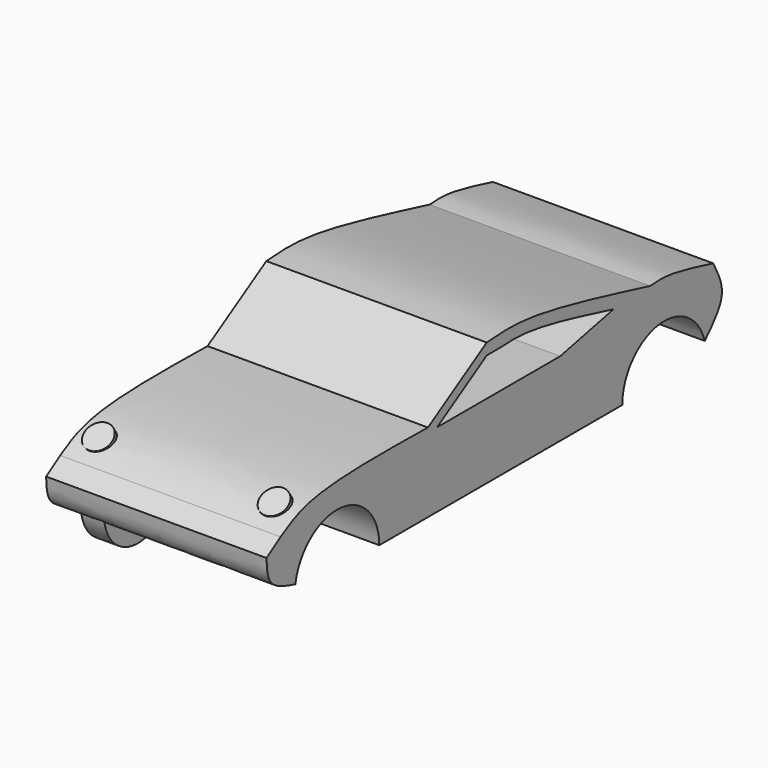
from build123d import *

# Parameters (mm, degrees)
F1_DEPTH = 60.96
F2_R     = 3.7719
F2_R_2   = 3.7723161285
F3_DEPTH = 5.08
F4_R     = 12.0854778756
F5_DEPTH = 6.35
F4_R_2   = 11.7760328576


with BuildPart() as f1:
    # F0 (on Right) → F1 (new body)
    with BuildSketch(Plane.YZ):
        with BuildLine():
            add(Edge.make_bspline(
                [(-64.1409039851, 0), (-61.3367730342, 1.6724076979), (-53.1906836739, 6.5308051097), (-29.0257862813, 6.1581053523), (-13.1791792619, 5.9137001518)],
                knots=[0, 0, 0, 0, 0.3442303205, 1, 1, 1, 1], degree=3))
            add(Edge.make_bspline(
                [(-64.1409039851, 0), (-65.7649742695, -1.0525936291), (-67.3890445539, -2.1051872582), (-69.0131148383, -3.1577808873)],
                knots=[0, 0, 0, 0, 5.8060329598, 5.8060329598, 5.8060329598, 5.8060329598], degree=3))
            add(Edge.make_bspline(
                [(-69.0131148383, -3.1577808873), (-68.9123331399, -5.630824506), (-68.6966685869, -10.9229346325), (-62.4284961999, -12.7148325819), (-59.0266166814, -13.6330034502)],
                knots=[0, 0, 0, 0, 0.4580363137, 0.9801600731, 0.9801600731, 0.9801600731, 0.9801600731], degree=3))
            ThreePointArc((-59.0266166814, -13.6330034502), (-43.4554006161, -1.3628345708), (-29.9993582291, -15.921499941))
            Line((-29.9993582291, -15.921499941), (54.0074083772, -15.921499941))
            ThreePointArc((54.0074083772, -15.921499941), (66.5239810985, -1.5216773113), (82.5264596121, -11.9111029871))
            add(Edge.make_bspline(
                [(85.464653483, 5.7898388273), (87.1383087684, 2.7525841783), (90.5830174187, -3.4986776281), (85.2621277219, -9.0545972271), (82.5264596121, -11.9111029871)],
                knots=[0, 0, 0, 0, 0.4858626535, 1, 1, 1, 1], degree=3))
            add(Edge.make_bspline(
                [(63.6131833576, 9.1485750818), (65.5147638513, 9.2864029295), (70.4140299258, 9.641505067), (79.751431573, 7.2519326646), (85.464653483, 5.7898388273)],
                knots=[0, 0, 0, 0, 0.388135787, 1, 1, 1, 1], degree=3))
            add(Edge.make_bspline(
                [(7.1464148377, 18.3476333366), (11.1956700146, 18.6622120641), (22.3860660817, 19.5315720827), (47.5529559118, 13.1933229182), (63.6131833576, 9.1485750818)],
                knots=[0, 0, 0, 0, 0.3618509258, 1, 1, 1, 1], degree=3))
            Line((7.1464148377, 18.3476333366), (-13.1791792619, 5.9137001518))
        make_face()
        with BuildLine():
            Line((-3.6628949456, -5.7045863252), (-10.0154345855, 4.6798302792))
            Line((-10.0154345855, 4.6798302792), (7.1464148377, 15.1783814167))
            add(Edge.make_bspline(
                [(7.1464148377, 15.1783814167), (8.4105502773, 15.1492259207), (11.5882400934, 15.0759369995), (19.8931919739, 15.9052709485), (32.1324530372, 13.2864391903), (39.4338364298, 11.5199001411)],
                knots=[0, 0, 0, 0, 0.1890527764, 0.4752268335, 0.8221217731, 0.8221217731, 0.8221217731, 0.8221217731], degree=3))
            add(Edge.make_bspline(
                [(39.4338364298, 11.5199001411), (43.1777859172, 10.6140672855), (47.0781263928, 9.6210632321), (50.9784668684, 8.6280591786)],
                knots=[0.8221217731, 0.8221217731, 0.8221217731, 0.8221217731, 1, 1, 1, 1], degree=3))
            Line((50.9784668684, 8.6280591786), (32.5549766421, 4.6798302792))
            add(Edge.make_bspline(
                [(-3.6628949456, -5.7045863252), (-2.9426448667, -6.7081638621), (-0.6801711967, -9.8606352324), (22.1604686278, -12.6179211274), (25.6930435705, -8.1083868826), (29.9163214532, -0.2376900782), (32.5549766421, 4.6798302792)],
                knots=[0, 0, 0, 0, 0.1677344339, 0.5268930214, 0.7044082301, 1, 1, 1, 1], degree=3))
        make_face(mode=Mode.SUBTRACT)
        with BuildLine():
            Line((32.5549766421, 4.6798302792), (-10.0154345855, 4.6798302792))
            Line((-10.0154345855, 4.6798302792), (-3.6628949456, -5.7045863252))
            add(Edge.make_bspline(
                [(-3.6628949456, -5.7045863252), (-2.9426448667, -6.7081638621), (-0.6801711967, -9.8606352324), (22.1604686278, -12.6179211274), (25.6930435705, -8.1083868826), (29.9163214532, -0.2376900782), (32.5549766421, 4.6798302792)],
                knots=[0, 0, 0, 0, 0.1677344339, 0.5268930214, 0.7044082301, 1, 1, 1, 1], degree=3))
        make_face()
    extrude(amount=F1_DEPTH)

    # F2 (on face) → F3 (join)
    with BuildSketch(Plane(origin=(0, -18.9731773498, 29.2741402596), x_dir=(1, 0, 0), z_dir=(0, -0.5438792561, 0.8391634851))):
        with Locations((5.6859576143, -46.5755239129)):
            Circle(F2_R)
        with Locations((54.2904101312, -46.5755239129)):
            Circle(F2_R_2)
    extrude(amount=-F3_DEPTH)


with BuildPart() as f5:
    # F4 (on Right) → F5 (new body)
    with BuildSketch(Plane.YZ):
        with Locations((68.0292993784, -15.8525146544)):
            Circle(F4_R)
    extrude(amount=F5_DEPTH)


with BuildPart() as f5b:
    # F4 (on Right) → F5, piece 2 (new body)
    with BuildSketch(Plane.YZ):
        with Locations((-45.1923944056, -15.248616226)):
            Circle(F4_R_2)
    extrude(amount=F5_DEPTH)


solid = Compound([f1.part, f5.part, f5b.part])
